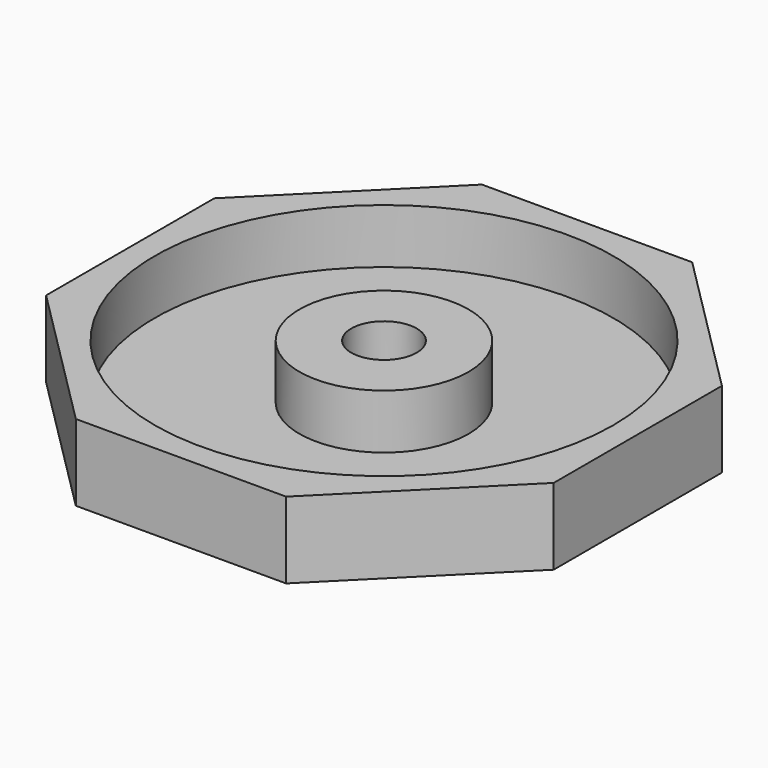
from build123d import *

# Parameters (mm, degrees)
F2_R     = 21
F2_R_2   = 7.75
F2_R_3   = 3
F0_DEPTH = 7
F1_DEPTH = 2


with BuildPart() as f0:
    # F2 (on Top) → F0 (new body)
    with BuildSketch(Plane.XY):
        Polygon((23.25, -9.630465), (23.25, 9.630465), (9.630465, 23.25), (-9.630465, 23.25), (-23.25, 9.630465), (-23.25, -9.630465), (-9.630465, -23.25), (9.630465, -23.25), align=None)
        Circle(F2_R, mode=Mode.SUBTRACT)
        Circle(F2_R_2)
        Circle(F2_R_3, mode=Mode.SUBTRACT)
    extrude(amount=F0_DEPTH)

    # F2 (on Top) → F1 (join)
    with BuildSketch(Plane.XY):
        Circle(F2_R)
        Circle(F2_R_2, mode=Mode.SUBTRACT)
    extrude(amount=F1_DEPTH)


solid = f0.part
